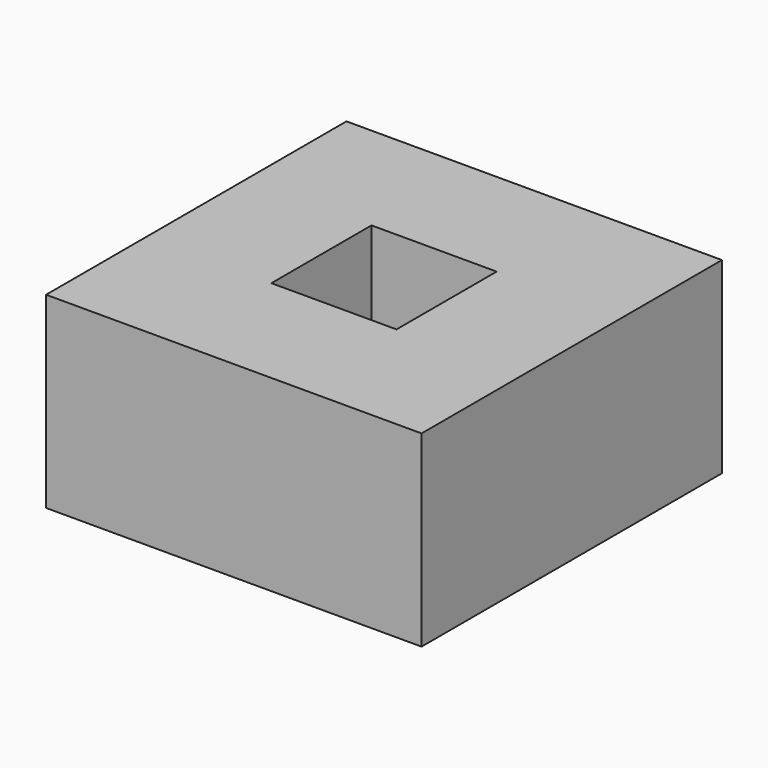
from build123d import *

# Parameters (mm, degrees)
F0_W     = 15.24
F0_H     = 15.24
F1_DEPTH = 7.62
F2_W     = 5.08
F2_H     = 5.08
F3_DEPTH = 3.81


with BuildPart() as f1:
    # F0 (on Top) → F1 (new body)
    with BuildSketch(Plane.XY):
        with Locations((7.62, 7.62)):
            Rectangle(F0_W, F0_H)
        with Locations((7.62, 7.62)):
            Rectangle(F0_W, F0_H)
    extrude(amount=F1_DEPTH)

    # F2 (on face) → F3 (cut)
    with BuildSketch(Plane.XY.offset(7.62)):
        with Locations((7.62, 7.62)):
            Rectangle(F2_W, F2_H)
    extrude(amount=-F3_DEPTH, mode=Mode.SUBTRACT)


solid = f1.part
